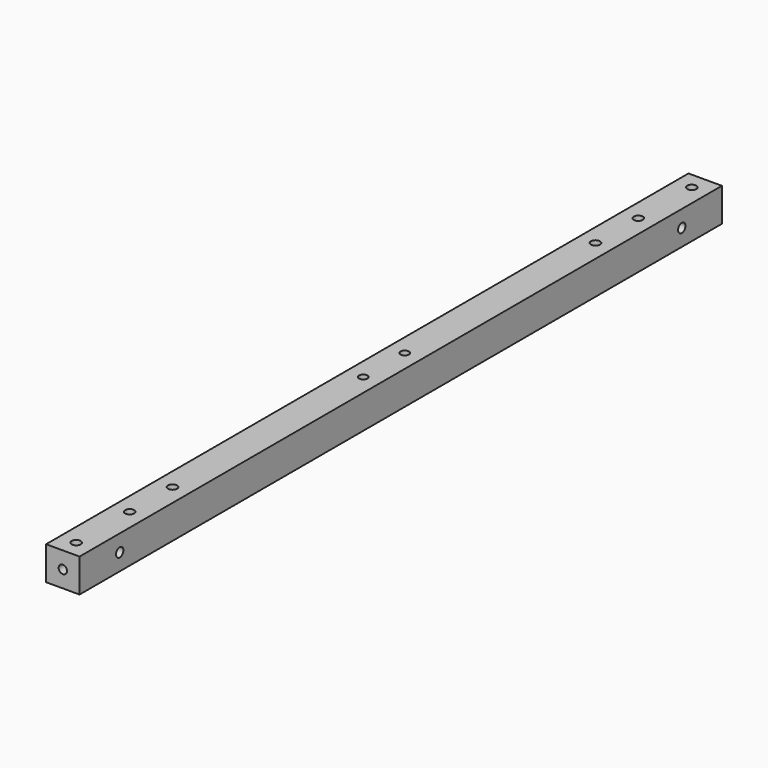
from build123d import *

# Parameters (mm, degrees)
F0_W     = 20
F0_H     = 20
F0_R     = 2.5
F1_DEPTH = 240
F2_R     = 2.75
F3_DEPTH = 20
F4_R     = 2.5
F4_R_2   = 2.75
F5_DEPTH = 10


with BuildPart() as f1:
    # F0 (on Front) → F1 (new body, symmetric)
    with BuildSketch(Plane.XZ):
        Rectangle(F0_W, F0_H)
        Circle(F0_R, mode=Mode.SUBTRACT)
    extrude(amount=F1_DEPTH, both=True)

    # F2 (on face) → F3 (cut)
    with BuildSketch(Plane(origin=(-10, 0, 0), x_dir=(0, -1, 0), z_dir=(-1, 0, 0))):
        with Locations((-210, 0)):
            Circle(F2_R)
        with Locations((210, 0)):
            Circle(F2_R)
    extrude(amount=-F3_DEPTH, mode=Mode.SUBTRACT)

    # F4 (on Top) → F5 (cut, symmetric)
    with BuildSketch(Plane.XY):
        with Locations((0, 15.5)):
            Circle(F4_R)
        with Locations((0, -15.5)):
            Circle(F4_R)
        with Locations((0, -158)):
            Circle(F4_R_2)
        with Locations((0, -190)):
            Circle(F4_R_2)
        with Locations((0, 158)):
            Circle(F4_R_2)
        with Locations((0, 190)):
            Circle(F4_R_2)
        with Locations((0, -230)):
            Circle(F4_R_2)
        with Locations((0, 230)):
            Circle(F4_R_2)
    extrude(amount=F5_DEPTH, both=True, mode=Mode.SUBTRACT)


solid = f1.part
